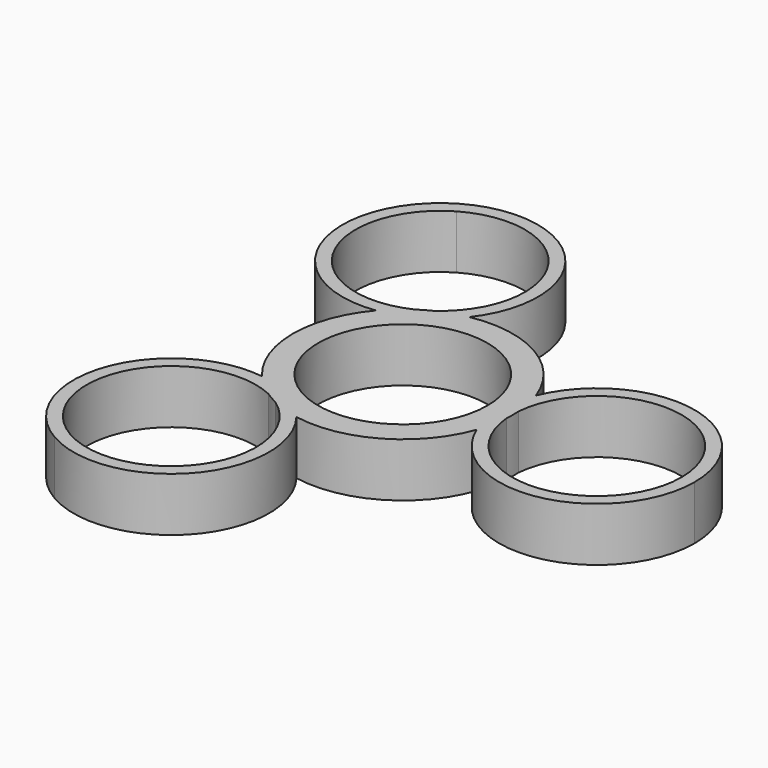
from build123d import *

# Parameters (mm, degrees)
F0_R     = 14.2875
F0_R_2   = 11
F1_DEPTH = 7
F3_DEPTH = 7
F4_COUNT = 3


with BuildPart() as f1:
    # F0 (on Top) → F1 (new body)
    with BuildSketch(Plane.XY):
        Circle(F0_R)
        Circle(F0_R_2, mode=Mode.SUBTRACT)
    extrude(amount=F1_DEPTH)

    # F2 (on face) → F3 (join)
    with BuildSketch(Plane.XY.offset(7)):
        with BuildLine():
            ThreePointArc((14.255938, 0.949145), (25.689929, 10.989739), (36.214913, 0))
            ThreePointArc((36.214913, 0), (25.689929, -10.989739), (14.255938, -0.949145))
            ThreePointArc((14.255938, -0.949145), (13.989619, -2.90228), (13.457006, -4.80017))
            ThreePointArc((13.457006, -4.80017), (27.660786, -12.462251), (37.914913, 0))
            ThreePointArc((37.914913, 0), (27.660786, 12.462251), (13.457006, 4.80017))
            ThreePointArc((13.457006, 4.80017), (13.989619, 2.90228), (14.255938, 0.949145))
        make_face()
    extrude(amount=-F3_DEPTH)

    # F4: F1 ×3 about axis
    f4_axis = Axis((0, 0, 7), (0, 0, 1))


with BuildPart() as f1_1:
    add(f1.part)
    for i in range(1, F4_COUNT):
        add(f1.part.rotate(f4_axis, i * 360 / F4_COUNT))


solid = f1_1.part
